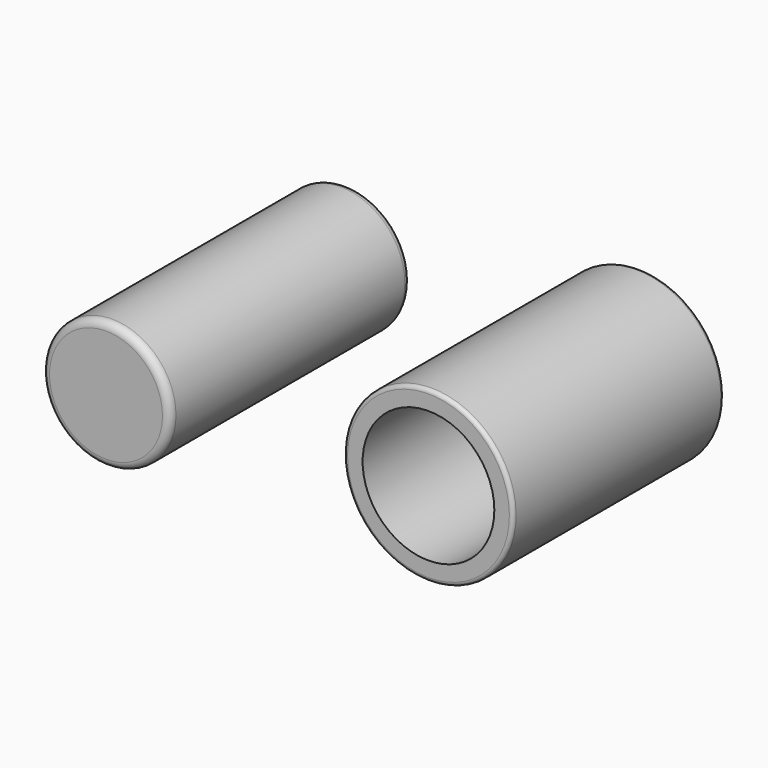
from build123d import *

# Parameters (mm, degrees)
F0_R     = 17.5
F1_DEPTH = 70
F2_R     = 1
F3_R     = 17
F4_DEPTH = 80
F5_R     = 2


with BuildPart() as f1:
    # F0 (on Front) → F1 (new body)
    with BuildSketch(Plane.XZ):
        with BuildLine():
            ThreePointArc((-8.561161, -20.807607), (18.93934, 12.147074), (-22.482094, 0.897479))
            ThreePointArc((-22.482094, 0.897479), (-18.93934, -12.147074), (-8.561161, -20.807607))
        make_face()
        Circle(F0_R, mode=Mode.SUBTRACT)
    extrude(amount=F1_DEPTH)

    # F2
    f2_edges = [f1.edges().sort_by_distance(p)[0] for p in [
        (22.482094, 0, -0.897479),
        (22.482094, -70, -0.897479),
    ]]
    fillet(f2_edges, radius=F2_R)


with BuildPart() as f4:
    # F3 (on Front) → F4 (new body)
    with BuildSketch(Plane.XZ):
        with Locations((-77.687524, 0)):
            Circle(F3_R)
    extrude(amount=F4_DEPTH)

    # F5
    f5_edges = [f4.edges().sort_by_distance(p)[0] for p in [
        (-94.687524, -80, 0),
        (-94.687524, 0, 0),
    ]]
    fillet(f5_edges, radius=F5_R)


solid = Compound([f1.part, f4.part])
